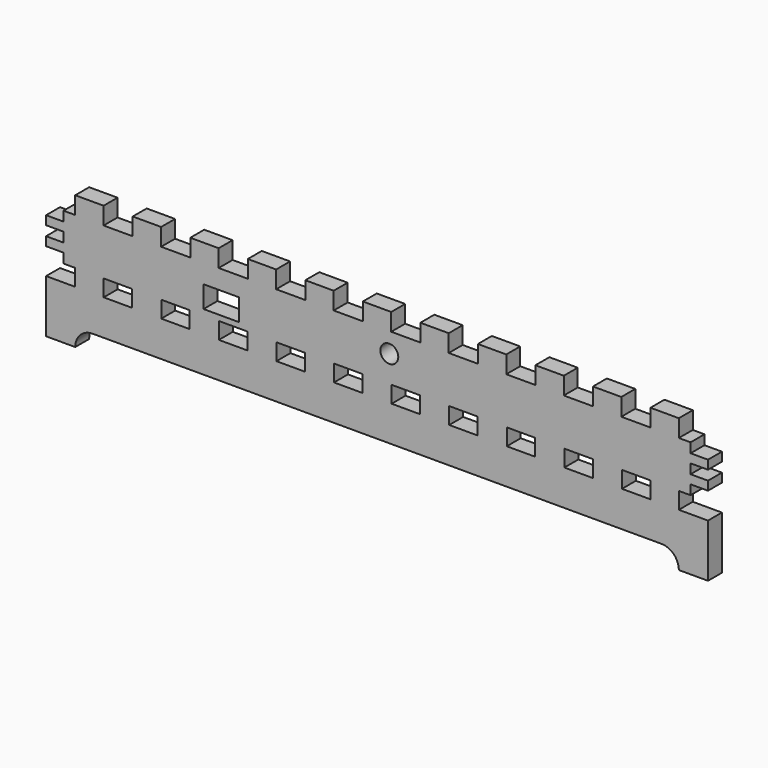
from build123d import *

# Parameters (mm, degrees)
PAD006_DEPTH    = 6.3754
SKETCH009_W     = 10.398121
SKETCH009_H     = 6.096
SKETCH009_W_2   = 10.398122
POCKET002_DEPTH = 7.3754
SKETCH011_R     = 3.275
SKETCH011_W     = 13
SKETCH011_H     = 8
POCKET004_DEPTH = 7.3754


with BuildPart() as part:
    # Sketch008 (on DatumPlane) → Pad006 (new body)
    with BuildSketch(Plane.XZ.offset(-11.8547)):
        with BuildLine():
            Line((-110.449725, -30.4013), (-121.115098, -30.4013))
            Line((-121.115098, -30.4013), (-121.115098, -10.9957))
            Line((-121.115098, -10.9957), (-110.449725, -10.9957))
            Line((-110.449725, -10.9957), (-110.449725, -4.8997))
            Line((-110.449725, -4.8997), (-114.739698, -4.8997))
            Line((-114.739698, -4.8997), (-114.739698, -1.38006))
            Line((-114.739698, -1.38006), (-121.115098, -1.38006))
            Line((-121.115098, -1.38006), (-121.115098, 1.86018))
            Line((-121.115098, 1.86018), (-114.739698, 1.86018))
            Line((-114.739698, 1.86018), (-114.739698, 5.37982))
            Line((-114.739698, 5.37982), (-121.115098, 5.37982))
            Line((-121.115098, 5.37982), (-121.115098, 8.62006))
            Line((-121.115098, 8.62006), (-114.739698, 8.62006))
            Line((-114.739698, 8.62006), (-114.739698, 12.1397))
            Line((-114.739698, 12.1397), (-110.449725, 12.1397))
            Line((-110.449725, 12.1397), (-110.449725, 18.5151))
            Line((-110.449725, 18.5151), (-100.063751, 18.5151))
            Line((-100.063751, 18.5151), (-100.063751, 12.1397))
            Line((-100.063751, 12.1397), (-89.398377, 12.1397))
            Line((-89.398377, 12.1397), (-89.398377, 18.5151))
            Line((-89.398377, 18.5151), (-79.012403, 18.5151))
            Line((-79.012403, 18.5151), (-79.012403, 12.1397))
            Line((-79.012403, 12.1397), (-68.34703, 12.1397))
            Line((-68.34703, 12.1397), (-68.34703, 18.5151))
            Line((-68.34703, 18.5151), (-57.961056, 18.5151))
            Line((-57.961056, 18.5151), (-57.961056, 12.1397))
            Line((-57.961056, 12.1397), (-47.295682, 12.1397))
            Line((-47.295682, 12.1397), (-47.295682, 18.5151))
            Line((-47.295682, 18.5151), (-36.909708, 18.5151))
            Line((-36.909708, 18.5151), (-36.909708, 12.1397))
            Line((-36.909708, 12.1397), (-26.244334, 12.1397))
            Line((-26.244334, 12.1397), (-26.244334, 18.5151))
            Line((-26.244334, 18.5151), (-15.858361, 18.5151))
            Line((-15.858361, 18.5151), (-15.858361, 12.1397))
            Line((-15.858361, 12.1397), (-5.192987, 12.1397))
            Line((-5.192987, 12.1397), (-5.192987, 18.5151))
            Line((-5.192987, 18.5151), (5.192987, 18.5151))
            Line((5.192987, 18.5151), (5.192987, 12.1397))
            Line((5.192987, 12.1397), (15.858361, 12.1397))
            Line((15.858361, 12.1397), (15.858361, 18.5151))
            Line((15.858361, 18.5151), (26.244334, 18.5151))
            Line((26.244334, 18.5151), (26.244334, 12.1397))
            Line((26.244334, 12.1397), (36.909708, 12.1397))
            Line((36.909708, 12.1397), (36.909708, 18.5151))
            Line((36.909708, 18.5151), (47.295682, 18.5151))
            Line((47.295682, 18.5151), (47.295682, 12.1397))
            Line((47.295682, 12.1397), (57.961056, 12.1397))
            Line((57.961056, 12.1397), (57.961056, 18.5151))
            Line((57.961056, 18.5151), (68.34703, 18.5151))
            Line((68.34703, 18.5151), (68.34703, 12.1397))
            Line((68.34703, 12.1397), (79.012403, 12.1397))
            Line((79.012403, 12.1397), (79.012403, 18.5151))
            Line((79.012403, 18.5151), (89.398377, 18.5151))
            Line((89.398377, 18.5151), (89.398377, 12.1397))
            Line((89.398377, 12.1397), (100.063751, 12.1397))
            Line((100.063751, 12.1397), (100.063751, 18.5151))
            Line((100.063751, 18.5151), (110.449725, 18.5151))
            Line((110.449725, 18.5151), (110.449725, 12.1397))
            Line((110.449725, 12.1397), (114.739698, 12.1397))
            Line((114.739698, 12.1397), (114.739698, 8.62006))
            Line((114.739698, 8.62006), (121.115098, 8.62006))
            Line((121.115098, 8.62006), (121.115098, 5.37982))
            Line((121.115098, 5.37982), (114.739698, 5.37982))
            Line((114.739698, 5.37982), (114.739698, 1.86018))
            Line((114.739698, 1.86018), (121.115098, 1.86018))
            Line((121.115098, 1.86018), (121.115098, -1.38006))
            Line((121.115098, -1.38006), (114.739698, -1.38006))
            Line((114.739698, -1.38006), (114.739698, -4.8997))
            Line((114.739698, -4.8997), (110.449725, -4.8997))
            Line((110.449725, -4.8997), (110.449725, -10.9957))
            Line((110.449725, -10.9957), (121.115098, -10.9957))
            Line((121.115098, -10.9957), (121.115098, -30.4013))
            Line((121.115098, -30.4013), (110.449725, -30.4013))
            ThreePointArc((110.449725, -30.4013), (108.582413, -25.893211), (104.074325, -24.0259))
            Line((-104.074325, -24.0259), (104.074325, -24.0259))
            ThreePointArc((-104.074325, -24.0259), (-108.582413, -25.893211), (-110.449725, -30.4013))
        make_face()
    extrude(amount=-PAD006_DEPTH)

    # Sketch009 (on Face77 of Pad006) → Pocket002 (cut)
    with BuildSketch(Plane.XZ.offset(-11.8547)):
        with Locations((-94.840395, -7.9477)):
            Rectangle(SKETCH009_W, SKETCH009_H)
        with Locations((-73.764751, -7.9477)):
            Rectangle(SKETCH009_W_2, SKETCH009_H)
        with Locations((-52.689108, -7.9477)):
            Rectangle(SKETCH009_W_2, SKETCH009_H)
        with Locations((-31.613465, -7.9477)):
            Rectangle(SKETCH009_W_2, SKETCH009_H)
        with Locations((-10.537821, -7.9477)):
            Rectangle(SKETCH009_W, SKETCH009_H)
        with Locations((10.537821, -7.9477)):
            Rectangle(SKETCH009_W, SKETCH009_H)
        with Locations((31.613465, -7.9477)):
            Rectangle(SKETCH009_W_2, SKETCH009_H)
        with Locations((52.689108, -7.9477)):
            Rectangle(SKETCH009_W_2, SKETCH009_H)
        with Locations((73.764751, -7.9477)):
            Rectangle(SKETCH009_W_2, SKETCH009_H)
        with Locations((94.840395, -7.9477)):
            Rectangle(SKETCH009_W, SKETCH009_H)
    extrude(amount=-POCKET002_DEPTH, mode=Mode.SUBTRACT)

    # Sketch011 (on Face4 of Pocket002) → Pocket004 (cut)
    with BuildSketch(Plane.XZ.offset(-11.8547)):
        with Locations((4.5, 4.83)):
            Circle(SKETCH011_R)
        with Locations((-56.999992, 1.117064)):
            Rectangle(SKETCH011_W, SKETCH011_H)
    extrude(amount=-POCKET004_DEPTH, mode=Mode.SUBTRACT)


solid = part.part
